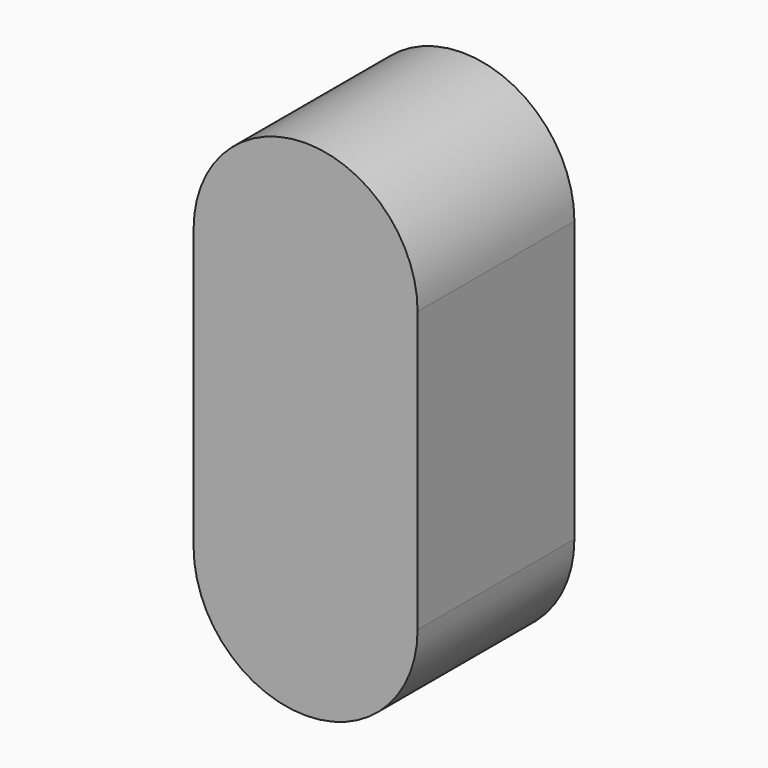
from build123d import *

# Parameters (mm, degrees)
F0_W     = 8
F0_H     = 10
F1_DEPTH = 7


with BuildPart() as f1:
    # F0 (on Front) → F1 (new body)
    with BuildSketch(Plane.XZ):
        with BuildLine():
            ThreePointArc((4, 0), (0, 4), (-4, 0))
            Line((-4, 0), (4, 0))
        make_face()
        with Locations((0, -5)):
            Rectangle(F0_W, F0_H)
        with BuildLine():
            Line((4, -10), (-4, -10))
            ThreePointArc((-4, -10), (0, -14), (4, -10))
        make_face()
    extrude(amount=F1_DEPTH)


solid = f1.part
